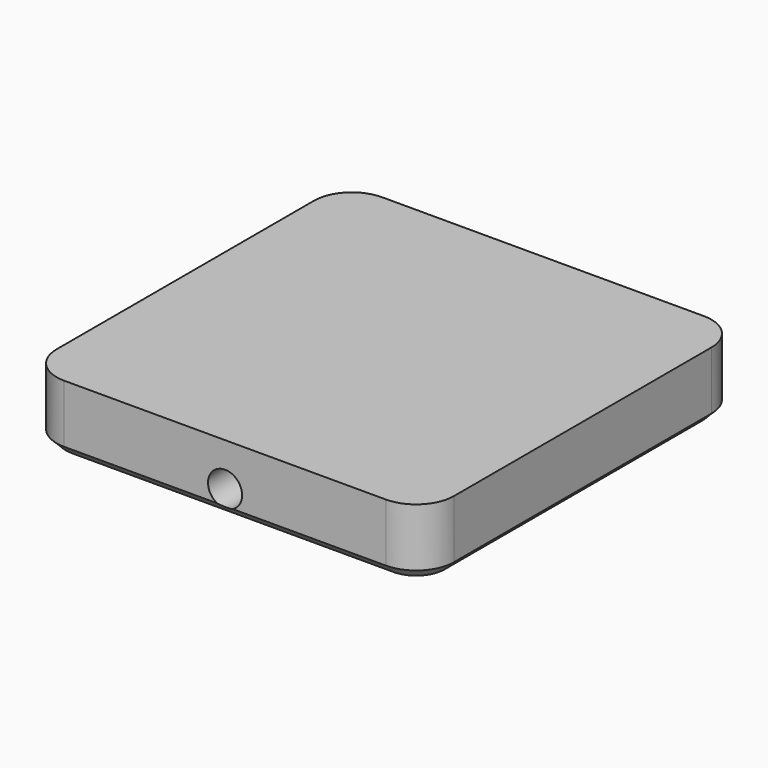
from build123d import *

# Parameters (mm, degrees)
PAD020_DEPTH           = 7.15
CHAMFER001_SIZE        = 1
SKETCH044_R            = 1.8
POCKET008_DEPTH        = 5
SKETCH064_R            = 1.8
POCKET013_DEPTH        = 5
LINEARPATTERN015_COUNT = 1
LINEARPATTERN015_PITCH = 0
LINEARPATTERN016_COUNT = 1
LINEARPATTERN016_PITCH = 0
SKETCH065_R            = 1.8
POCKET014_DEPTH        = 5
SKETCH066_R            = 1.8
POCKET015_DEPTH        = 5


with BuildPart() as part:
    # Sketch055 → Pad020 (new body)
    with BuildSketch(Plane.XY):
        with BuildLine():
            ThreePointArc((4, 42), (1.171573, 40.828427), (0, 38))
            Line((0, 4), (0, 38))
            ThreePointArc((0, 4), (1.171573, 1.171573), (4, 0))
            Line((38, 0), (4, 0))
            ThreePointArc((38, 0), (40.828427, 1.171573), (42, 4))
            Line((42, 38), (42, 4))
            ThreePointArc((42, 38), (40.828427, 40.828427), (38, 42))
            Line((4, 42), (38, 42))
        make_face()
    extrude(amount=PAD020_DEPTH)

    # Chamfer001
    chamfer001_edges = [part.edges().sort_by_distance(p)[0] for p in [
        (1.171573, 1.171573, 0),
        (0, 21, 0),
        (21, 0, 0),
        (40.828427, 1.171573, 0),
        (42, 21, 0),
        (40.828427, 40.828427, 0),
        (21, 42, 0),
        (1.171573, 40.828427, 0),
    ]]
    chamfer(chamfer001_edges, length=CHAMFER001_SIZE)

    # Sketch044 → Pocket008 (cut)
    with BuildSketch(Plane.XZ):
        with Locations((21, 2.6)):
            Circle(SKETCH044_R)
    pocket008 = extrude(amount=-POCKET008_DEPTH, mode=Mode.SUBTRACT)

    # Sketch064 → Pocket013 (cut)
    with BuildSketch(Plane.YZ):
        with Locations((21, 2.6)):
            Circle(SKETCH064_R)
    pocket013 = extrude(amount=POCKET013_DEPTH, mode=Mode.SUBTRACT)

    # LinearPattern015: Pocket008 ×1
    with Locations(*[(i * LINEARPATTERN015_PITCH, 0, 0) for i in range(1, LINEARPATTERN015_COUNT)]):
        add(pocket008, mode=Mode.SUBTRACT)

    # LinearPattern016: Pocket013 ×1
    with Locations(*[(0, i * LINEARPATTERN016_PITCH, 0) for i in range(1, LINEARPATTERN016_COUNT)]):
        add(pocket013, mode=Mode.SUBTRACT)

    # Sketch065 → Pocket014 (cut)
    with BuildSketch(Plane.XZ.offset(-1.5)):
        with Locations((21, 2.6)):
            Circle(SKETCH065_R)
    extrude(amount=-POCKET014_DEPTH, mode=Mode.SUBTRACT)

    # Sketch066 → Pocket015 (cut)
    with BuildSketch(Plane.YZ.offset(1.5)):
        with Locations((21, 2.6)):
            Circle(SKETCH066_R)
    extrude(amount=POCKET015_DEPTH, mode=Mode.SUBTRACT)


solid = part.part
